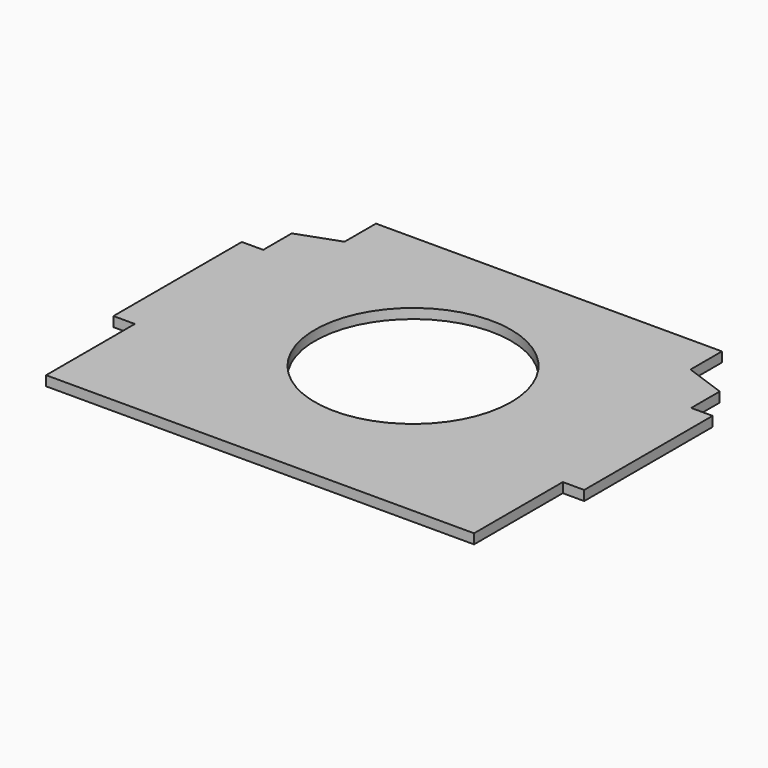
from build123d import *

# Parameters (mm, degrees)
F0_R     = 110
F1_DEPTH = 11


with BuildPart() as f1:
    # F0 (on Top) → F1 (new body)
    with BuildSketch(Plane.XY):
        Polygon((-194, 202.5), (-194, 158.5), (-240, 141.926697), (-240, 101.926697), (-264, 101.926697), (-264, -78.073303), (-240, -78.073303), (-240, -202.5), (240, -202.5), (240, -78.073303), (264, -78.073303), (264, 101.926697), (240, 101.926697), (240, 141.926697), (194, 158.5), (194, 202.5), align=None)
        with Locations((0, 11.926697)):
            Circle(F0_R, mode=Mode.SUBTRACT)
    extrude(amount=F1_DEPTH)


solid = f1.part
